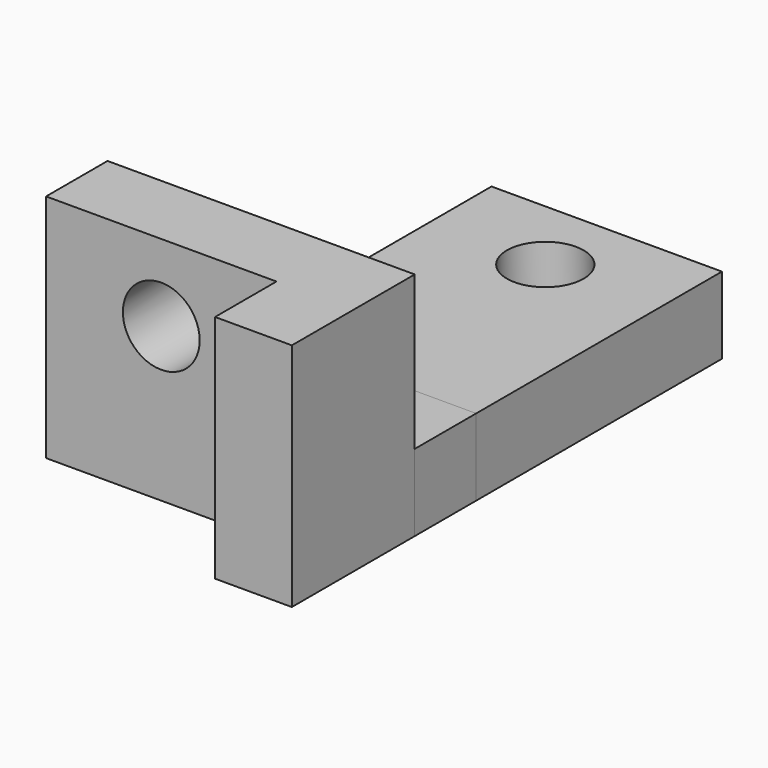
from build123d import *

# Parameters (mm, degrees)
F0_W     = 25.4
F0_H     = 50.8
F1_DEPTH = 25.4
F0_H_2   = 25.4
F2_DEPTH = 76.2
F0_W_2   = 76.2
F3_DEPTH = 25.4
F4_R     = 12.7
F5_DEPTH = 25.4
F6_R     = 12.7
F7_DEPTH = 25.4


with BuildPart() as f1:
    # F0 (on Top) → F1 (new body)
    with BuildSketch(Plane.XY):
        Polygon((28.432302, 82.121108), (-47.767698, 82.121108), (-47.767698, 31.321108), (-47.767698, -19.478892), (28.432302, -19.478892), align=None)
        with Locations((-60.467698, 5.921108)):
            Rectangle(F0_W, F0_H)
    extrude(amount=F1_DEPTH)

    # F6 (on face) → F7 (cut)
    with BuildSketch(Plane.XY.offset(25.4)):
        with Locations((-9.667698, 56.721108)):
            Circle(F6_R)
    extrude(amount=-F7_DEPTH, mode=Mode.SUBTRACT)


with BuildPart() as f2:
    # F0 (on Top) → F2 (new body)
    with BuildSketch(Plane.XY):
        Polygon((28.432302, -95.678892), (28.432302, -44.878892), (-47.767698, -44.878892), (-47.767698, -70.278892), (3.032302, -70.278892), (3.032302, -95.678892), align=None)
        with Locations((-60.467698, -57.578892)):
            Rectangle(F0_W, F0_H_2)
    extrude(amount=F2_DEPTH)

    # F4 (on face) → F5 (cut)
    with BuildSketch(Plane.XZ.offset(70.278892)):
        with Locations((-35.067698, 50.8)):
            Circle(F4_R)
    extrude(amount=-F5_DEPTH, mode=Mode.SUBTRACT)


with BuildPart() as f3:
    # F0 (on Top) → F3 (new body)
    with BuildSketch(Plane.XY):
        with Locations((-60.467698, -32.178892)):
            Rectangle(F0_W, F0_H_2)
        with Locations((-9.667698, -32.178892)):
            Rectangle(F0_W_2, F0_H_2)
    extrude(amount=F3_DEPTH)


solid = Compound([f1.part, f2.part, f3.part])
